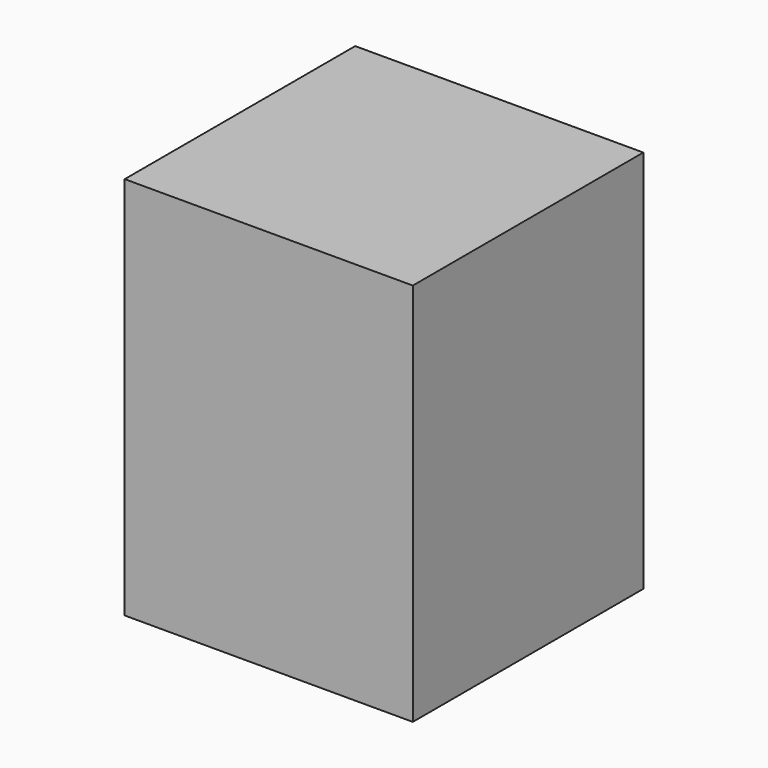
from build123d import *

# Parameters (mm, degrees)
F0_W     = 76.2
F0_H     = 101.6
F1_DEPTH = 76.2
F2_R     = 25.777138
F3_DEPTH = 25.4


with BuildPart() as f1:
    # F0 (on Front) → F1 (new body)
    with BuildSketch(Plane.XZ):
        with Locations((38.1, 50.8)):
            Rectangle(F0_W, F0_H)
    extrude(amount=-F1_DEPTH)

    # F2 (on face) → F3 (cut)
    with BuildSketch(Plane(origin=(0, 76.2, 0), x_dir=(-1, 0, 0), z_dir=(0, 1, 0))):
        with Locations((-35.715438, 61.196949)):
            Circle(F2_R)
    extrude(amount=-F3_DEPTH, mode=Mode.SUBTRACT)


solid = f1.part
